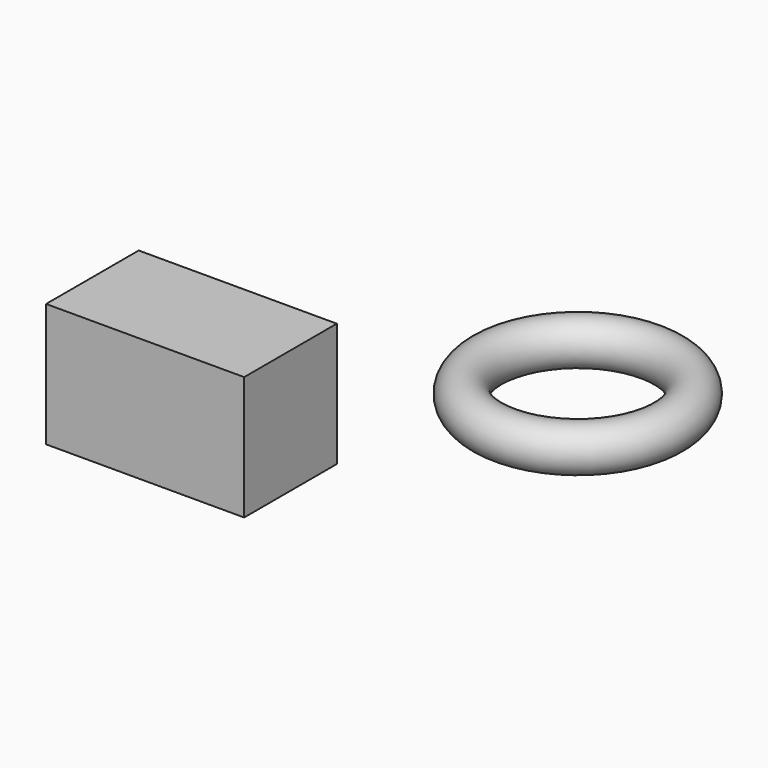
from build123d import *

# Parameters (mm, degrees)
F0_R     = 10.897546
F2_W     = 98.102853
F2_H     = 57.338565
F3_DEPTH = 61.214


with BuildPart() as f1:
    # F0 (on Front) → F1 (revolve)
    with BuildSketch(Plane.XZ):
        with Locations((-44.875454, 16.255407)):
            Circle(F0_R)
    revolve(axis=Axis((0, 0, 26.729299), (0, 0, 1)))


with BuildPart() as f3:
    # F2 (on Top) → F3 (new body)
    with BuildSketch(Plane.XY):
        with Locations((-104.450204, -108.595758)):
            Rectangle(F2_W, F2_H)
    extrude(amount=F3_DEPTH)


solid = Compound([f1.part, f3.part])
